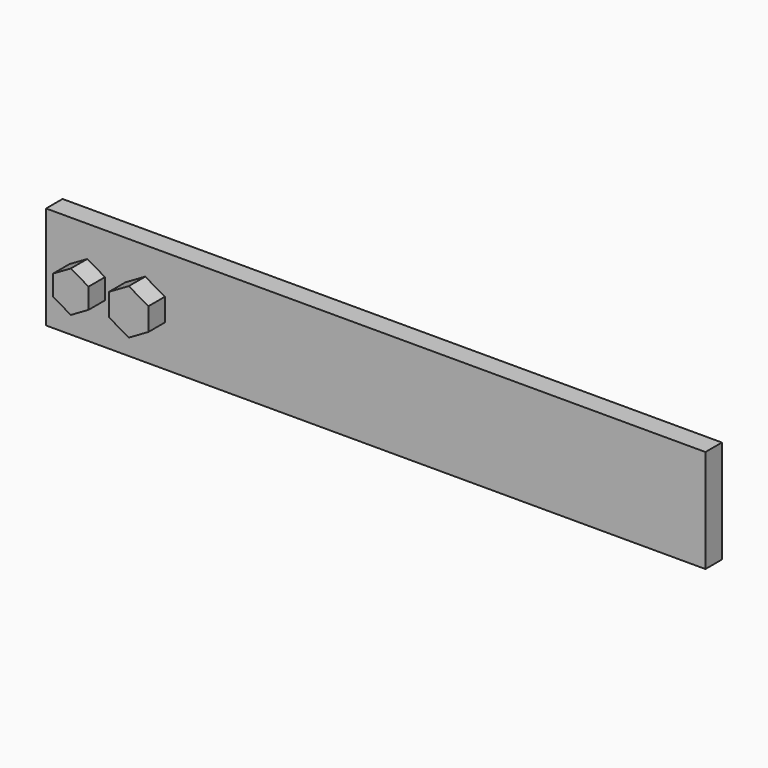
from build123d import *

# Parameters (mm, degrees)
F0_W     = 203.2
F0_H     = 31.75
F1_DEPTH = 6.35
F3_DEPTH = 6.35
F5_DEPTH = 6.35


with BuildPart() as f1:
    # F0 (on Front) → F1 (new body)
    with BuildSketch(Plane.XZ):
        with Locations((101.6, 15.875)):
            Rectangle(F0_W, F0_H)
    extrude(amount=F1_DEPTH)

    # F2 (on face) → F3 (join)
    with BuildSketch(Plane.XZ.offset(6.35)):
        Polygon((18.160766, 12.722225), (18.160766, 19.027775), (12.7, 22.18055), (7.239234, 19.027775), (7.239234, 12.722225), (12.7, 9.56945), align=None)
    extrude(amount=F3_DEPTH)

    # F4 (on face) → F5 (join)
    with BuildSketch(Plane.XZ.offset(6.35)):
        Polygon((36.609141, 12.722225), (36.609141, 19.707225), (30.559954, 23.199725), (24.510766, 19.707225), (24.510766, 12.722225), (30.559954, 9.229725), align=None)
    extrude(amount=F5_DEPTH)


solid = f1.part
